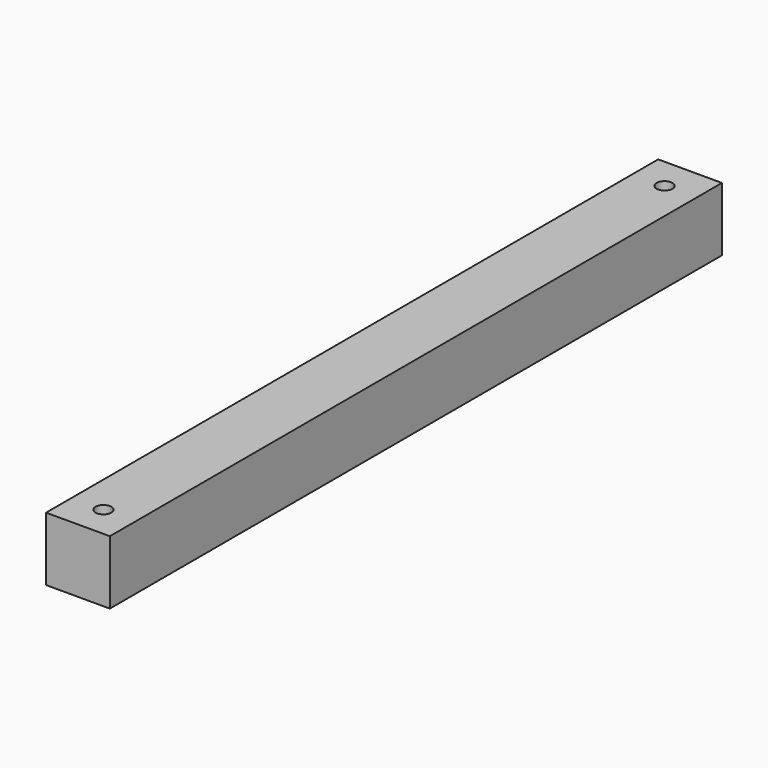
from build123d import *

# Parameters (mm, degrees)
F0_W     = 20
F0_H     = 20
F1_DEPTH = 240
F2_R     = 2.5
F3_DEPTH = 25
F4_R     = 2.5
F5_DEPTH = 25


with BuildPart() as f1:
    # F0 (on Front) → F1 (new body)
    with BuildSketch(Plane.XZ):
        with Locations((24.677172, -22.298429)):
            Rectangle(F0_W, F0_H)
    extrude(amount=F1_DEPTH)

    # F2 (on face) → F3 (cut)
    with BuildSketch(Plane.XY.offset(-12.298429)):
        with Locations((24.677172, -230)):
            Circle(F2_R)
    extrude(amount=-F3_DEPTH, mode=Mode.SUBTRACT)

    # F4 (on face) → F5 (cut)
    with BuildSketch(Plane.XY.offset(-12.298429)):
        with Locations((24.677172, -10)):
            Circle(F4_R)
    extrude(amount=-F5_DEPTH, mode=Mode.SUBTRACT)


solid = f1.part
